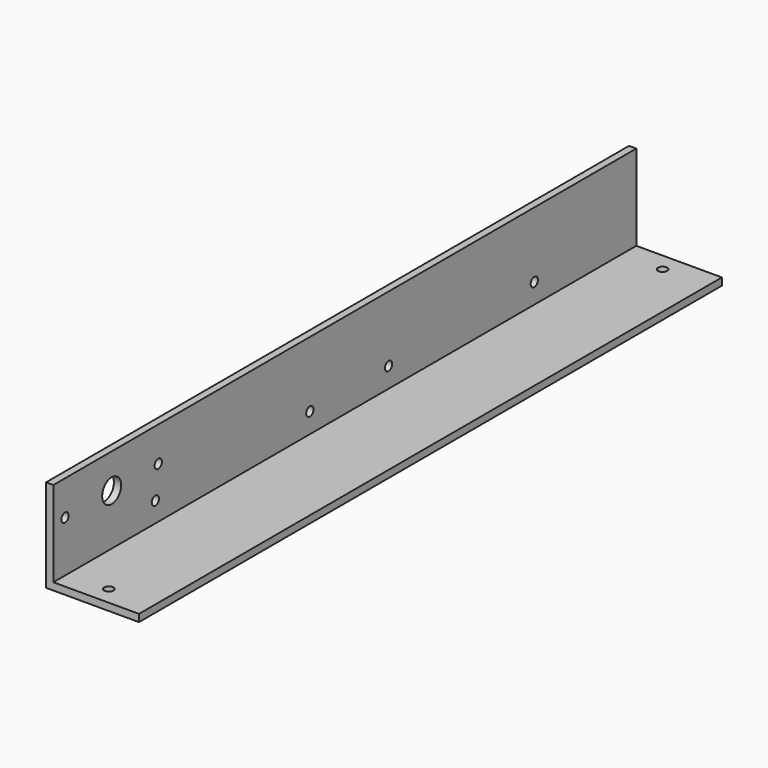
from build123d import *

# Parameters (mm, degrees)
PAD_DEPTH         = 200
SKETCH001_R       = 2.5
POCKET_DEPTH      = 4.001
POCKET_DEPTH_BACK = -47.001
SKETCH003_R       = 2.5
SKETCH003_R_2     = 6.5
POCKET001_DEPTH   = 51.001


with BuildPart() as part:
    # Sketch → Pad (new body, symmetric)
    with BuildSketch(Plane.XZ):
        Polygon((0, 51), (0, 0), (51, 0), (51, 4), (4, 4), (4, 51), align=None)
    extrude(amount=PAD_DEPTH, both=True)

    # Sketch001 → Pocket (cut, two sides)
    with BuildSketch(Plane(origin=(0, 0, 4), x_dir=(-1, 0, 0), z_dir=(0, 0, 1))) as pocket_sk:
        with Locations((-26.435764, 190)):
            Circle(SKETCH001_R)
        with Locations((-26.435764, -190)):
            Circle(SKETCH001_R)
    extrude(amount=-POCKET_DEPTH, mode=Mode.SUBTRACT)
    extrude(pocket_sk.sketch, amount=-POCKET_DEPTH_BACK, mode=Mode.SUBTRACT)

    # Sketch003 → Pocket001 (cut, through all)
    with BuildSketch(Plane(origin=(0, 0, 0), x_dir=(0, 0, -1), z_dir=(-1, 0, 0))):
        with Locations((-15, 130)):
            Circle(SKETCH003_R)
        with Locations((-15, -130)):
            Circle(SKETCH003_R)
        with Locations((-15, -30)):
            Circle(SKETCH003_R)
        with Locations((-15, 24)):
            Circle(SKETCH003_R)
        with Locations((-32, 160)):
            Circle(SKETCH003_R_2)
        with Locations((-32, 192)):
            Circle(SKETCH003_R)
        with Locations((-32, 128)):
            Circle(SKETCH003_R)
    extrude(amount=-POCKET001_DEPTH, mode=Mode.SUBTRACT)


solid = part.part
